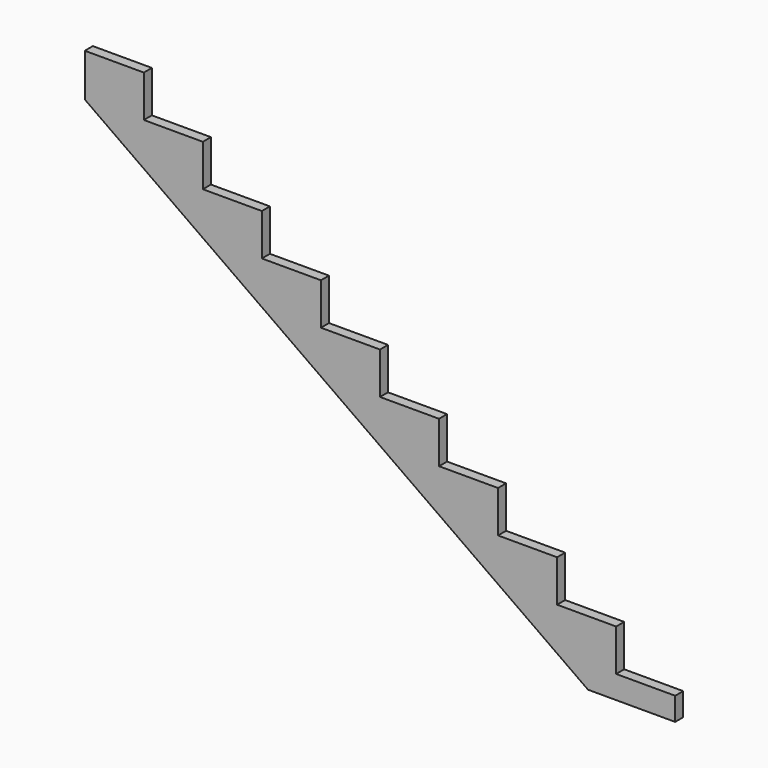
from build123d import *

# Parameters (mm, degrees)
F1_DEPTH = 44.45


with BuildPart() as f1:
    # F0 (on Front) → F1 (new body)
    with BuildSketch(Plane.XZ):
        Polygon((-384.183073, 0), (0, 0), (0, 101.6), (-260.35, 101.6), (-260.35, 285.75), (-520.7, 285.75), (-520.7, 469.9), (-781.05, 469.9), (-781.05, 654.05), (-1041.4, 654.05), (-1041.4, 838.2), (-1301.75, 838.2), (-1301.75, 1022.35), (-1562.1, 1022.35), (-1562.1, 1206.5), (-1822.45, 1206.5), (-1822.45, 1390.65), (-2082.8, 1390.65), (-2082.8, 1574.8), (-2343.15, 1574.8), (-2343.15, 1758.95), (-2603.5, 1758.95), (-2603.5, 1569.760753), align=None)
    extrude(amount=F1_DEPTH)


solid = f1.part
